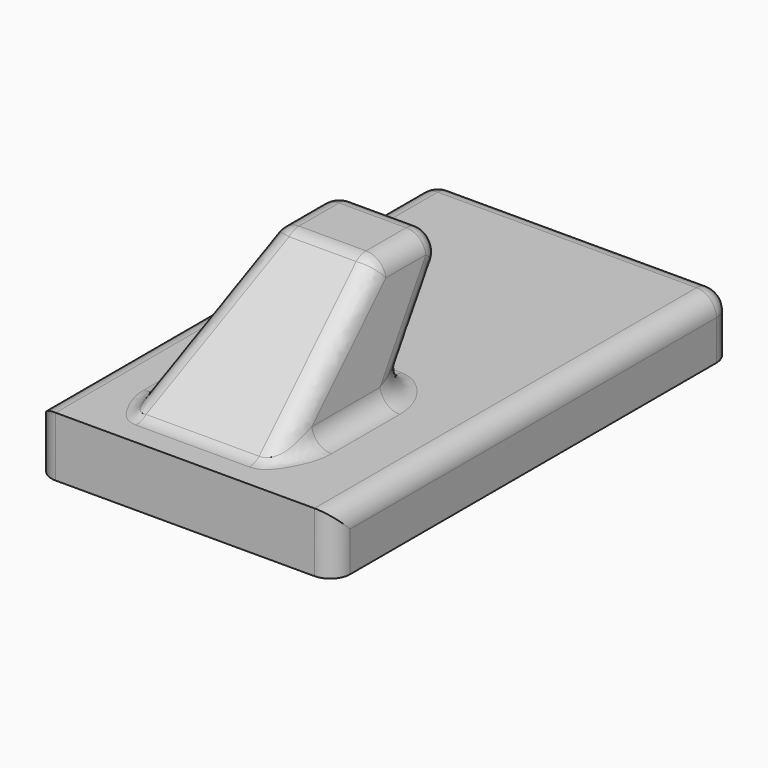
from build123d import *

# Parameters (mm, degrees)
SKETCH_W     = 15
SKETCH_H     = 25
PAD_DEPTH    = 3
SKETCH002_W  = 7.5
SKETCH002_H  = 7.5
SKETCH003_W  = 5
SKETCH003_H  = 5
SKETCH004_W  = 10
SKETCH004_H  = 20
POCKET_DEPTH = 1
FILLET_R     = 1


with BuildPart() as part:
    # Sketch → Pad (new body)
    with BuildSketch(Plane.XY):
        with Locations((7.5, 12.5)):
            Rectangle(SKETCH_W, SKETCH_H)
    extrude(amount=-PAD_DEPTH)

    # Sketch002 → AdditiveLoft section 0
    with BuildSketch(Plane.XY):
        with Locations((7, 5.25)):
            Rectangle(SKETCH002_W, SKETCH002_H)
    # Sketch003 → AdditiveLoft section 1
    with BuildSketch(Plane(origin=(0, 2, 6), x_dir=(1, 0, 0), z_dir=(0, 0, 1))):
        with Locations((7.5, 9.5)):
            Rectangle(SKETCH003_W, SKETCH003_H)
    loft()

    # Sketch004 → Pocket (cut)
    with BuildSketch(Plane(origin=(0, 0, -3), x_dir=(1, 0, 0), z_dir=(0, 0, -1))):
        with Locations((7.5, -12.5)):
            Rectangle(SKETCH004_W, SKETCH004_H)
    extrude(amount=-POCKET_DEPTH, mode=Mode.SUBTRACT)

    # Fillet
    fillet_edges = [part.edges().sort_by_distance(p)[0] for p in [
        (10.375, 5.25, 3),
        (10, 11.5, 6),
        (7.5, 9, 6),
        (4.125, 5.25, 3),
        (5, 11.5, 6),
        (7, 1.5, 0),
        (10.75, 5.25, 0),
        (3.25, 5.25, 0),
        (0, 12.5, 0),
        (0, 25, -1.5),
        (7.5, 25, 0),
        (15, 25, -1.5),
        (15, 12.5, 0),
        (7.5, 14, 6),
        (4.125, 11.5, 3),
        (7, 9, 0),
        (10.375, 11.5, 3),
        (0, 0, -1.5),
        (15, 0, -1.5),
    ]]
    fillet(fillet_edges, radius=FILLET_R)


solid = part.part
